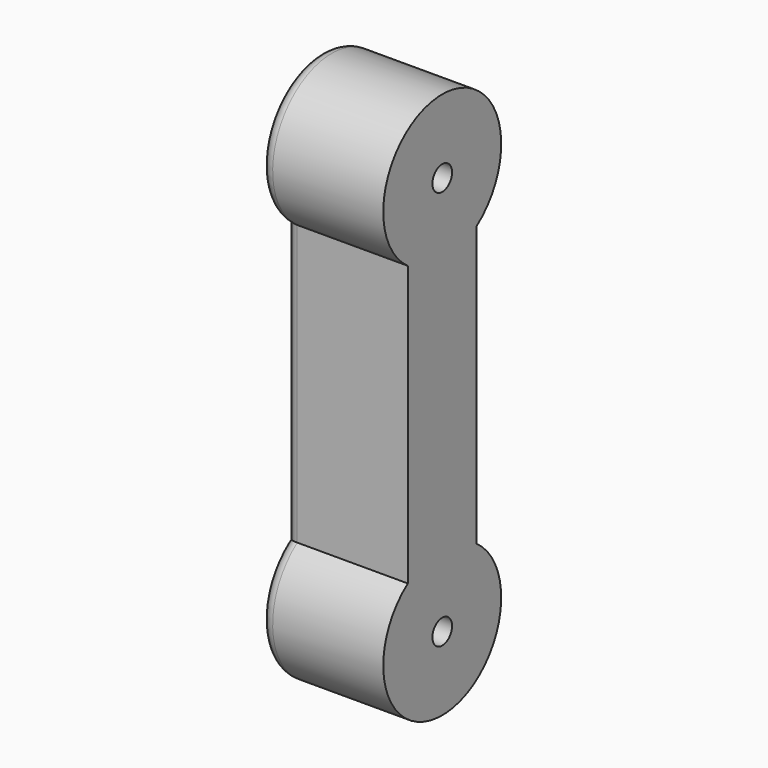
from build123d import *

# Parameters (mm, degrees)
F0_R     = 2
F1_DEPTH = 20
F2_R     = 2


with BuildPart() as f1:
    # F0 (on Right) → F1 (new body)
    with BuildSketch(Plane.YZ):
        with BuildLine():
            ThreePointArc((7, 24.021733), (0, 45.768528), (-7, 24.021733))
            Line((-7, 24.021733), (-7, -21.484678))
            ThreePointArc((-7, -21.484678), (0, -43.231472), (7, -21.484678))
            Line((7, -21.484678), (7, 24.021733))
        make_face()
        with Locations((0, -31.231472)):
            Circle(F0_R, mode=Mode.SUBTRACT)
        with Locations((0, 33.768528)):
            Circle(F0_R, mode=Mode.SUBTRACT)
    extrude(amount=F1_DEPTH)

    # F2
    f2_edges = [f1.edges().sort_by_distance(p)[0] for p in [
        (0, -7, 1.268528),
        (0, 0, -43.231472),
        (0, 7, 1.268528),
        (0, 0, 45.768528),
    ]]
    fillet(f2_edges, radius=F2_R)


solid = f1.part
